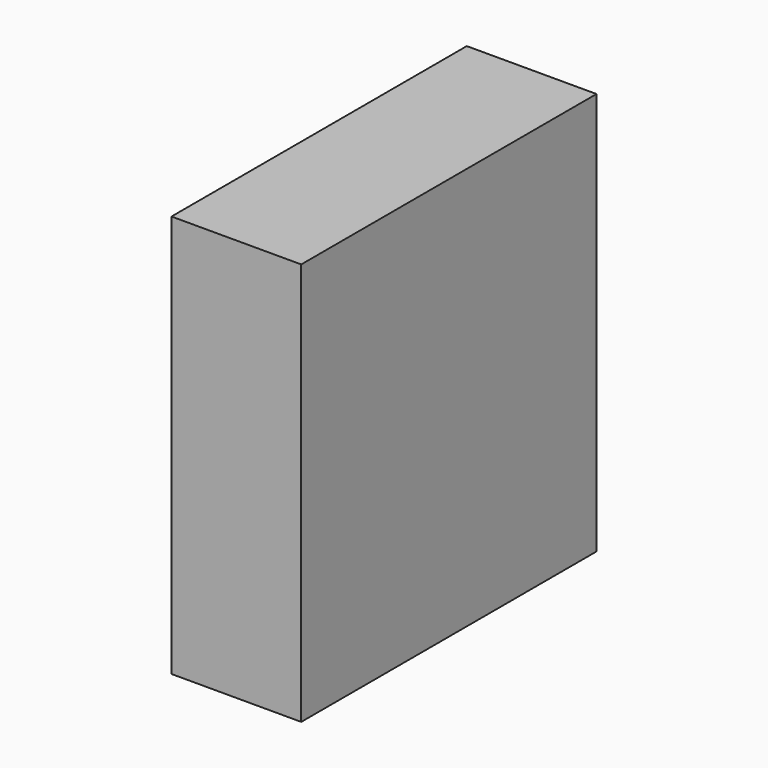
from build123d import *

# Parameters (mm, degrees)
F0_W     = 55.2281737328
F0_H     = 28.3643379807
F1_DEPTH = 47.498
F0_W_2   = 135.1466029882
F0_H_2   = 147.4758796394


with BuildPart() as f1:
    # F0 (on Right) → F1 (new body)
    with BuildSketch(Plane.YZ):
        with Locations((130.2735358477, -116.7170666158)):
            Rectangle(F0_W, F0_H)
    extrude(amount=F1_DEPTH)


with BuildPart() as f1b:
    # F0 (on Right) → F1, piece 2 (new body)
    with BuildSketch(Plane.YZ):
        with Locations((35.0861474872, -28.7969578058)):
            Rectangle(F0_W_2, F0_H_2)
    extrude(amount=F1_DEPTH)


solid = f1b.part
